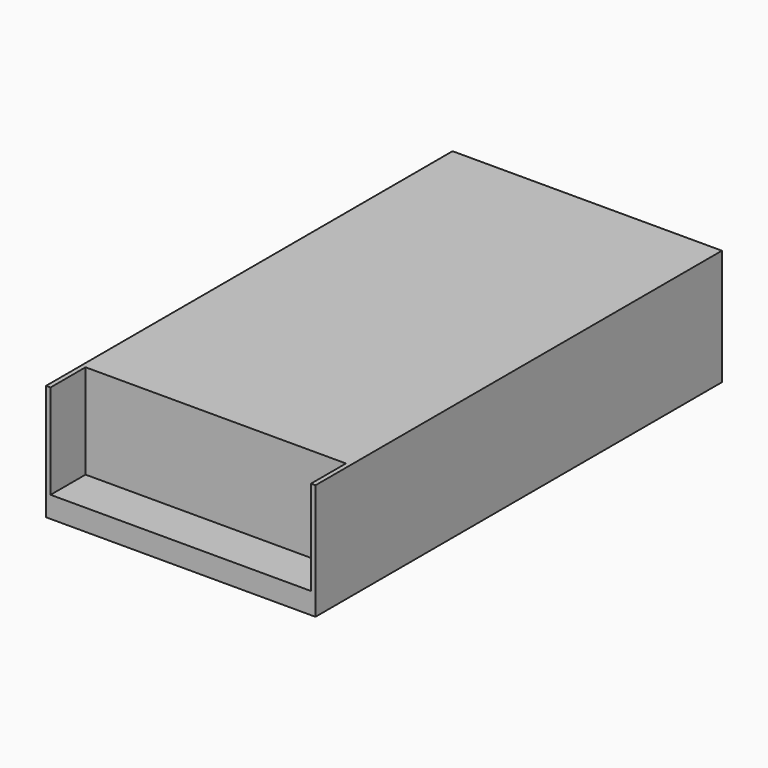
from build123d import *

# Parameters (mm, degrees)
F0_W     = 215
F0_H     = 49
F1_DEPTH = 57
F2_W     = 110.2
F2_H     = 18.5
F3_DEPTH = 40
F5_D     = 4
F5_DEPTH = 12
F5_TIP   = 1.2017212381


with BuildPart() as f1:
    # F0 (on Right) → F1 (new body, symmetric)
    with BuildSketch(Plane.YZ):
        with Locations((107.5, 24.5)):
            Rectangle(F0_W, F0_H)
    extrude(amount=F1_DEPTH, both=True)

    # F2 (on face) → F3 (cut)
    with BuildSketch(Plane.XY.offset(49)):
        with Locations((0, 9.25)):
            Rectangle(F2_W, F2_H)
    extrude(amount=-F3_DEPTH, mode=Mode.SUBTRACT)

    # F5
    with Locations(Plane(origin=(0, 0, 0), x_dir=(1, 0, 0), z_dir=(0, 0, -1))):
        with Locations((25, -32), (25, -183), (-25, -183), (-25, -32)):
            Hole(F5_D / 2, depth=F5_DEPTH)
            with Locations((0, 0, -(F5_DEPTH + F5_TIP / 2))):  # 118° drill point
                Cone(0, F5_D / 2, F5_TIP, mode=Mode.SUBTRACT)


solid = f1.part
